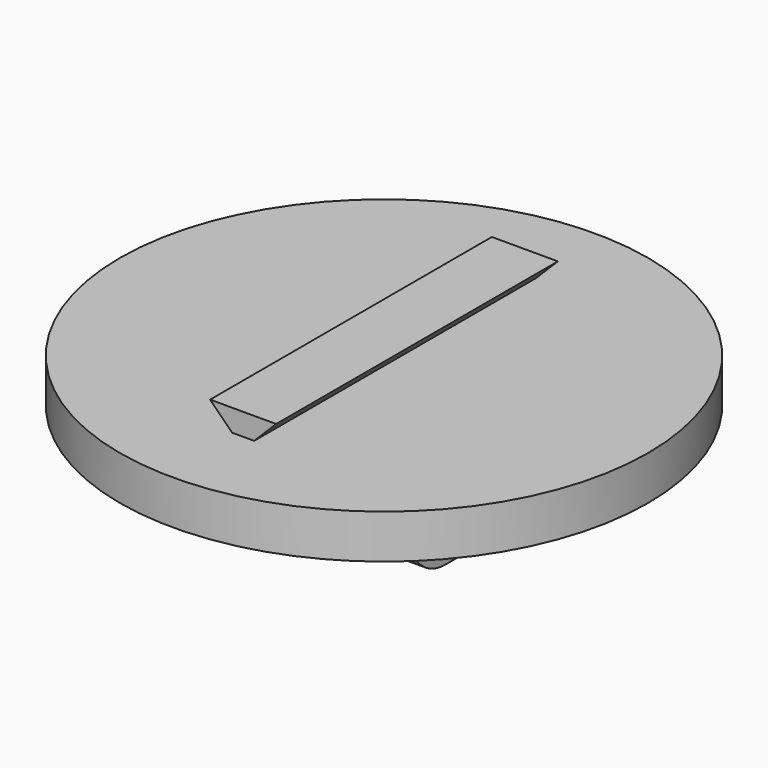
from build123d import *

# Parameters (mm, degrees)
F0_R      = 76.2
F1_DEPTH  = 12.7
F2_W      = 19.05
F2_H      = 101.6
F3_DEPTH  = 6.35
F5_DEPTH  = 127.001
F6_W      = 8.89
F6_H      = 30.48
F7_DEPTH  = 33.02
F8_R      = 12.7
F9_R      = 3.556
F10_DEPTH = 95.882075
F11_R     = 3.175
F12_DEPTH = 95.889925


with BuildPart() as f1:
    # F0 (on Top) → F1 (new body)
    with BuildSketch(Plane.XY):
        Circle(F0_R)
    extrude(amount=F1_DEPTH)

    # F2 (on face) → F3 (join)
    with BuildSketch(Plane.XY.offset(12.7)):
        Rectangle(F2_W, F2_H)
    extrude(amount=F3_DEPTH)

    # F4 (on face) → F5 (cut, through all)
    with BuildSketch(Plane.XZ.offset(50.8)):
        Polygon((-3.175, 12.7), (-9.525, 19.05), (-9.525, 12.7), align=None)
        Polygon((9.525, 12.7), (9.525, 19.05), (3.175, 12.7), align=None)
    extrude(amount=-F5_DEPTH, mode=Mode.SUBTRACT)

    # F6 (on face) → F7 (join)
    with BuildSketch(Plane(origin=(0, 0, 0), x_dir=(1, 0, 0), z_dir=(0, 0, -1))):
        with Locations((15.236075, 0)):
            Rectangle(F6_W, F6_H)
        with Locations((-0.003925, 0)):
            Rectangle(F6_W, F6_H)
        with Locations((-15.243925, 0)):
            Rectangle(F6_W, F6_H)
    extrude(amount=F7_DEPTH)

    # F8
    f8_edges = [f1.edges().sort_by_distance(p)[0] for p in [
        (-15.243925, -15.24, -33.02),
        (-15.243925, 15.24, -33.02),
        (-0.003925, -15.24, -33.02),
        (-0.003925, 15.24, -33.02),
        (15.236075, 15.24, -33.02),
        (15.236075, -15.24, -33.02),
    ]]
    fillet(f8_edges, radius=F8_R)

    # F9 (on face) → F10 (cut, through all)
    with BuildSketch(Plane.YZ.offset(19.681075)):
        with Locations((0, -10.823786)):
            Circle(F9_R)
    extrude(amount=-F10_DEPTH, mode=Mode.SUBTRACT)

    # F11 (on face) → F12 (cut, through all)
    with BuildSketch(Plane(origin=(-19.688925, 0, 0), x_dir=(0, -1, 0), z_dir=(-1, 0, 0))):
        with Locations((-8.377785, -21.523021)):
            Circle(F11_R)
        with Locations((0, -24.412786)):
            Circle(F11_R)
        with Locations((8.377784, -21.523022)):
            Circle(F11_R)
    extrude(amount=-F12_DEPTH, mode=Mode.SUBTRACT)


solid = f1.part
